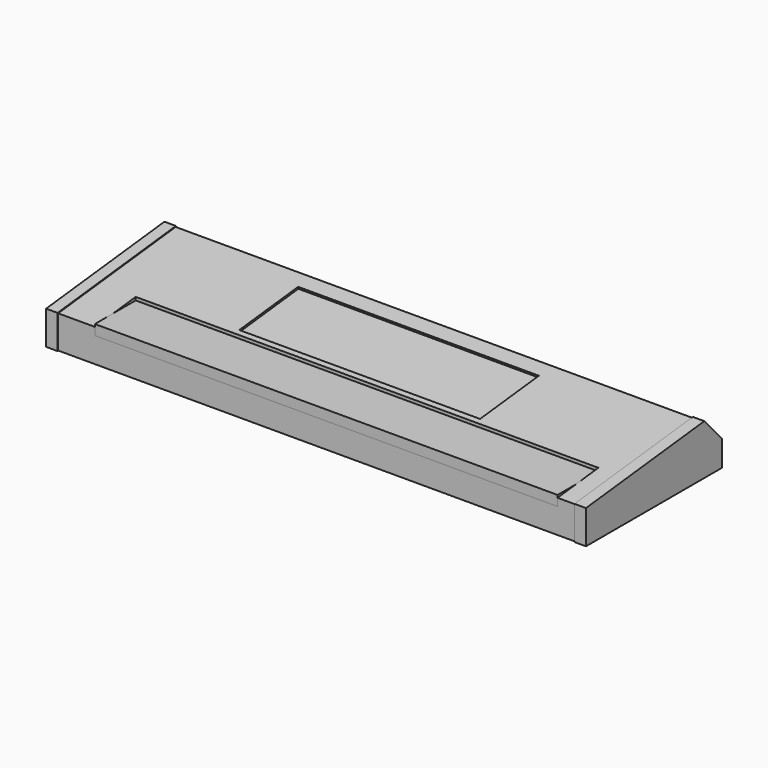
from build123d import *

# Parameters (mm, degrees)
F1_DEPTH = 1460
F2_DEPTH = 31
F4_DEPTH = 31
F5_W     = 651
F5_H     = 200
F6_DEPTH = 5
F7_W     = 1251.2797813466
F7_H     = 20.6513455533
F7_H_2   = 10.7806026936
F7_H_3   = 6.7979232944
F8_DEPTH = 138
F9_DEPTH = 138


with BuildPart() as f1:
    # F0 (on Right) → F1 (new body)
    with BuildSketch(Plane.YZ):
        Polygon((99.0458952926, -7.3774666747), (-298.1544249058, -51.5108355857), (-298.1544249058, -140.2207499994), (157.3834362086, -140.2207499994), (157.3834362086, -72.1969565814), align=None)
    extrude(amount=F1_DEPTH)

    # F0 (on Right) → F2 (join)
    with BuildSketch(Plane.YZ):
        Polygon((159.3834362086, -140.7207499994), (159.3834362086, -71.429484571), (99.8455750942, -5.276305555), (-300.1544249058, -49.7207499994), (-300.1544249058, -140.7207499994), align=None)
        Polygon((-298.1544249058, -140.2207499994), (-298.1544249058, -51.5108355857), (99.0458952926, -7.3774666747), (157.3834362086, -72.1969565814), (157.3834362086, -140.2207499994), align=None, mode=Mode.SUBTRACT)
    extrude(amount=F2_DEPTH)

    # F3 (on face) → F4 (join)
    with BuildSketch(Plane.YZ.offset(1460)):
        Polygon((159.3834362086, -140.7207499994), (159.3834362086, -71.429484571), (99.8455750942, -5.276305555), (-300.1544249058, -49.7207499994), (-300.1544249058, -140.7207499994), align=None)
        Polygon((-298.1544249058, -140.2207499994), (-298.1544249058, -51.5108355857), (99.0458952926, -7.3774666747), (157.3834362086, -72.1969565814), (157.3834362086, -140.2207499994), align=None, mode=Mode.SUBTRACT)
    extrude(amount=-F4_DEPTH)

    # F5 (on face) → F6 (cut)
    with BuildSketch(Plane(origin=(0, 2.017598724, -18.1583885157), x_dir=(1, 0, 0), z_dir=(0, -0.1104315261, 0.9938837347))):
        with Locations((723.5, -47.374600586)):
            Rectangle(F5_W, F5_H)
    extrude(amount=-F6_DEPTH, mode=Mode.SUBTRACT)

    # F7 (on face) → F8 (cut)
    with BuildSketch(Plane.XZ.offset(298.1544249058)):
        with Locations((755.9206733678, -61.8365083623)):
            Rectangle(F7_W, F7_H)
        with Locations((755.9206733678, -39.3226109445)):
            Rectangle(F7_W, F7_H_2)
        with Locations((755.9206733678, -48.1118739385)):
            Rectangle(F7_W, F7_H_3)
    extrude(amount=-F8_DEPTH, mode=Mode.SUBTRACT)


with BuildPart() as f9:
    # F7 (on face) → F9 (new body)
    with BuildSketch(Plane.XZ.offset(298.1544249058)):
        with Locations((755.9206733678, -61.8365083623)):
            Rectangle(F7_W, F7_H)
        with Locations((755.9206733678, -48.1118739385)):
            Rectangle(F7_W, F7_H_3)
    extrude(amount=-F9_DEPTH)


solid = Compound([f1.part, f9.part])
